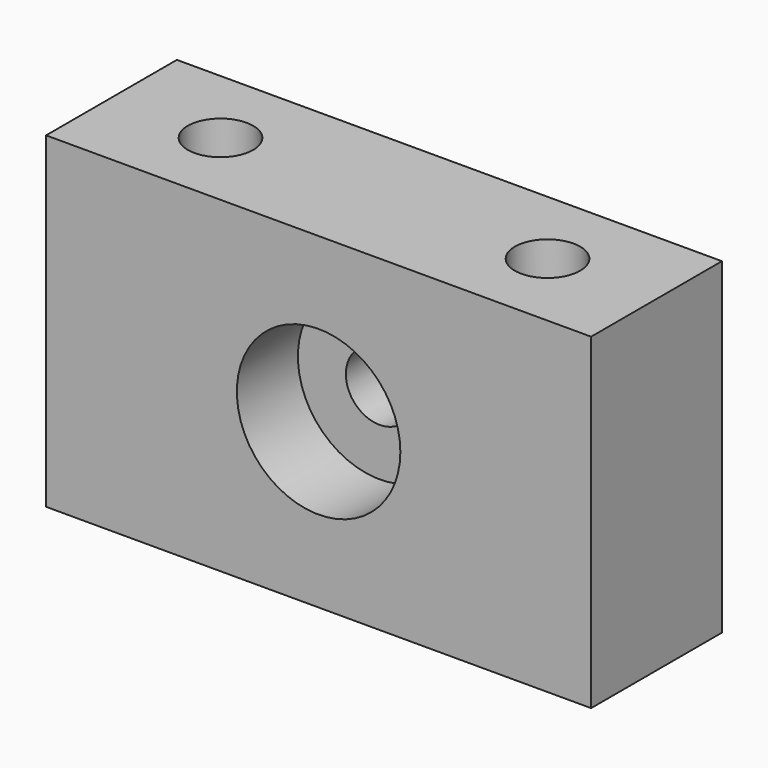
from build123d import *

# Parameters (mm, degrees)
F0_W     = 50
F0_H     = 30
F0_R     = 7.5
F1_DEPTH = 15
F0_R_2   = 3.1
F2_DEPTH = 8
F3_R     = 3
F4_DEPTH = 20


with BuildPart() as f1:
    # F0 (on Front) → F1 (new body)
    with BuildSketch(Plane.XZ):
        Rectangle(F0_W, F0_H)
        Circle(F0_R, mode=Mode.SUBTRACT)
    extrude(amount=F1_DEPTH)

    # F0 (on Front) → F2 (join)
    with BuildSketch(Plane.XZ):
        Circle(F0_R)
        Circle(F0_R_2, mode=Mode.SUBTRACT)
    extrude(amount=F2_DEPTH)

    # F3 (on face) → F4 (cut)
    with BuildSketch(Plane.XY.offset(15)):
        with Locations((-15, -7.5)):
            Circle(F3_R)
        with Locations((15, -7.5)):
            Circle(F3_R)
    extrude(amount=-F4_DEPTH, mode=Mode.SUBTRACT)


solid = f1.part
